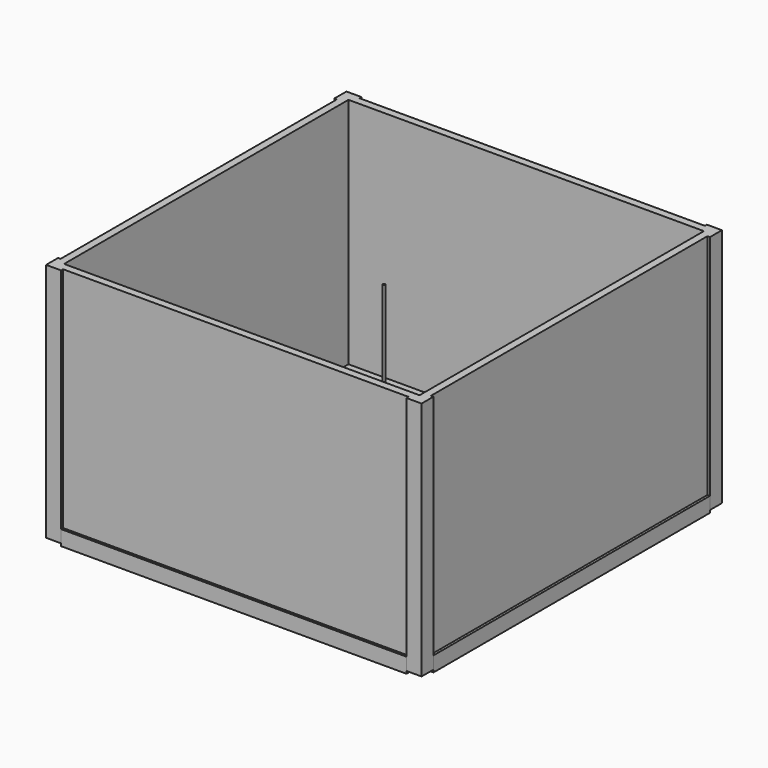
from build123d import *

# Parameters (mm, degrees)
F0_W     = 15.875
F0_H     = 3.175
F0_W_2   = 450.85
F0_H_2   = 450.85
F0_W_3   = 3.175
F0_H_3   = 15.875
F1_DEPTH = 304.8
F2_DEPTH = 9.525
F4_DEPTH = 438.15
F5_R     = 1.5875
F6_DEPTH = 254
F7_COUNT = 4


with BuildPart() as f1:
    # F0 (on Top) → F1 (new body)
    with BuildSketch(Plane.XY):
        with Locations((227.0125, -236.5375)):
            Rectangle(F0_W, F0_H)
        Polygon((219.075, -234.95), (234.95, -234.95), (234.95, -219.075), (234.95, 219.075), (234.95, 234.95), (219.075, 234.95), (-219.075, 234.95), (-234.95, 234.95), (-234.95, 219.075), (-234.95, -219.075), (-234.95, -234.95), (-219.075, -234.95), align=None)
        Rectangle(F0_W_2, F0_H_2, mode=Mode.SUBTRACT)
        Polygon((234.95, -219.075), (234.95, -234.95), (234.95, -238.125), (238.125, -238.125), (238.125, -219.075), align=None)
        Polygon((-219.075, -238.125), (-219.075, -234.95), (-234.95, -234.95), (-238.125, -234.95), (-238.125, -238.125), align=None)
        with Locations((236.5375, 227.0125)):
            Rectangle(F0_W_3, F0_H_3)
        with Locations((-236.5375, -227.0125)):
            Rectangle(F0_W_3, F0_H_3)
        Polygon((219.075, 234.95), (234.95, 234.95), (238.125, 234.95), (238.125, 238.125), (219.075, 238.125), align=None)
        Polygon((-238.125, 219.075), (-234.95, 219.075), (-234.95, 234.95), (-234.95, 238.125), (-238.125, 238.125), align=None)
        with Locations((-227.0125, 236.5375)):
            Rectangle(F0_W, F0_H)
    extrude(amount=F1_DEPTH)

    # F0 (on Top) → F2 (join)
    with BuildSketch(Plane.XY):
        Rectangle(F0_W_2, F0_H_2)
    extrude(amount=F2_DEPTH)

    # F5 (on face) → F6 (join)
    with BuildSketch(Plane.XY.offset(9.525)):
        Circle(F5_R)
    extrude(amount=F6_DEPTH)


with BuildPart() as f4:
    # F3 (on face) → F4 (new body, through all)
    with BuildSketch(Plane(origin=(219.075, 0, 0), x_dir=(0, -1, 0), z_dir=(-1, 0, 0))):
        Polygon((234.95, 15.875), (234.95, 0), (219.075, 0), (219.075, -3.175), (238.125, -3.175), (238.125, 15.875), align=None)
    extrude(amount=F4_DEPTH)


with BuildPart() as f7_1:
    # F7: instance of F4
    add(f4.part.rotate(Axis((0, 0, 9.525), (0, 0, -1)), 1 * 360 / F7_COUNT))


with BuildPart() as f7_2:
    # F7: instance of F4
    add(f4.part.rotate(Axis((0, 0, 9.525), (0, 0, -1)), 2 * 360 / F7_COUNT))


with BuildPart() as f7_3:
    # F7: instance of F4
    add(f4.part.rotate(Axis((0, 0, 9.525), (0, 0, -1)), 3 * 360 / F7_COUNT))


solid = Compound([f1.part, f4.part, f7_1.part, f7_2.part, f7_3.part])
